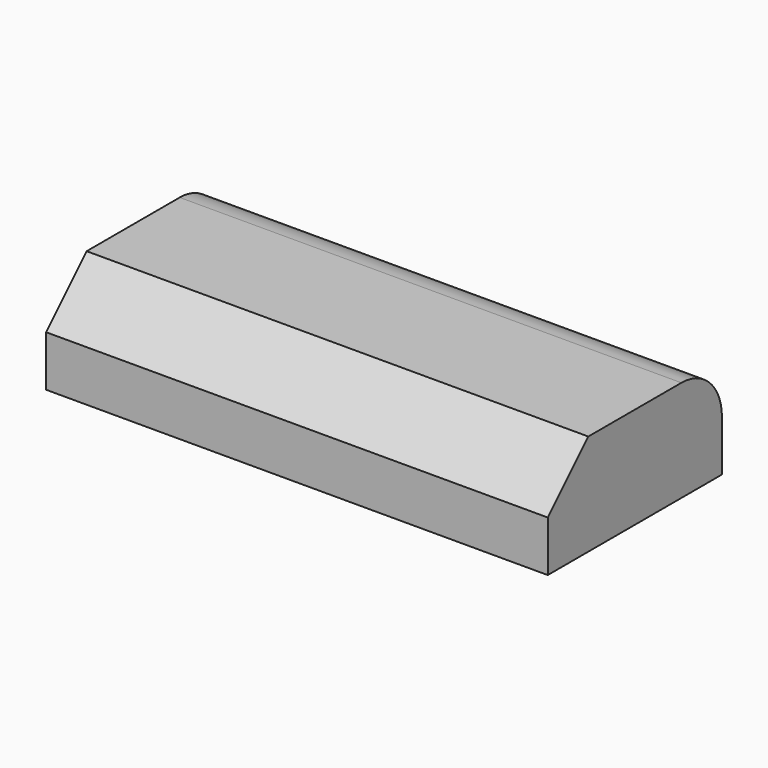
from build123d import *

# Parameters (mm, degrees)
F0_W     = 125.685974
F0_H     = 54.542944
F1_DEPTH = 25.4
F2_SIZE  = 12.7
F3_R     = 12.7


with BuildPart() as f1:
    # F0 (on Top) → F1 (new body)
    with BuildSketch(Plane.XY):
        Rectangle(F0_W, F0_H)
    extrude(amount=F1_DEPTH)

    # F2
    f2_edges = [f1.edges().sort_by_distance(p)[0] for p in [
        (0, -27.271472, 25.4),
    ]]
    chamfer(f2_edges, length=F2_SIZE)

    # F3
    f3_edges = [f1.edges().sort_by_distance(p)[0] for p in [
        (0, 27.271472, 25.4),
    ]]
    fillet(f3_edges, radius=F3_R)


solid = f1.part
